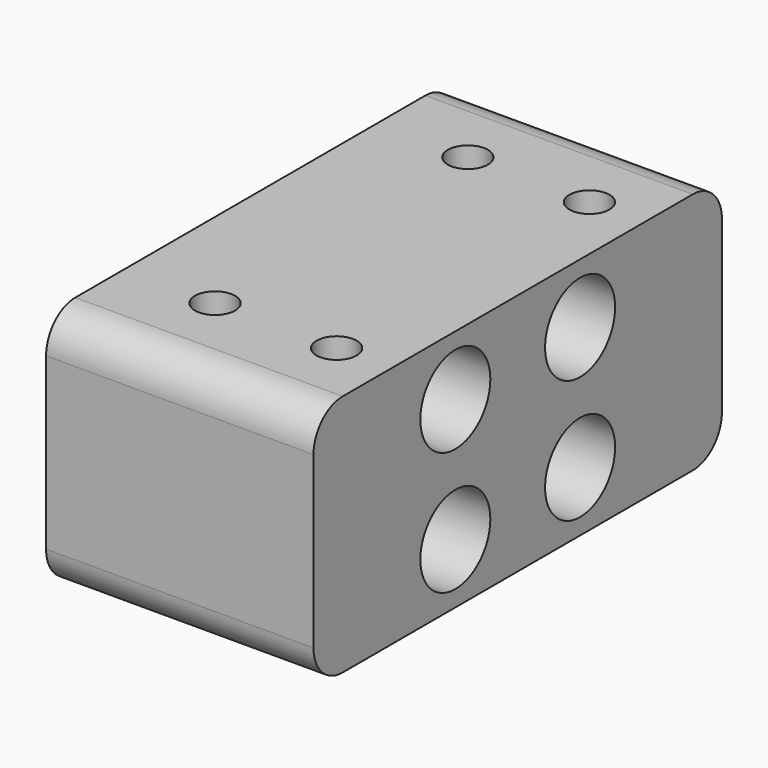
from build123d import *

# Parameters (mm, degrees)
F0_W     = 19
F0_H     = 42
F0_R     = 1.65
F1_DEPTH = 20
F3_DEPTH = 3
F2_R     = 2.1
F4_DEPTH = 22
F2_R_2   = 3.6
F5_DEPTH = 15
F6_R     = 3


with BuildPart() as f1:
    # F0 (on Top) → F1 (new body)
    with BuildSketch(Plane.XY):
        Rectangle(F0_W, F0_H)
        with Locations((-5, -13)):
            Circle(F0_R, mode=Mode.SUBTRACT)
        with Locations((5, -13)):
            Circle(F0_R, mode=Mode.SUBTRACT)
        with Locations((-5, 13)):
            Circle(F0_R, mode=Mode.SUBTRACT)
        with Locations((5, 13)):
            Circle(F0_R, mode=Mode.SUBTRACT)
    extrude(amount=F1_DEPTH)

    # F3 (add): a face of the model
    f3_faces = [f1.faces().sort_by_distance(p)[0] for p in [
        (-9.5, 0, 10),
    ]]
    extrude(f3_faces, amount=F3_DEPTH)

    # F2 (on face) → F4 (cut, through all)
    with BuildSketch(Plane.YZ.offset(9.5)):
        with Locations((-6.415, 15.07)):
            Circle(F2_R)
        with Locations((6.415, 15.07)):
            Circle(F2_R)
        with Locations((6.415, 4.93)):
            Circle(F2_R)
        with Locations((-6.415, 4.93)):
            Circle(F2_R)
    extrude(amount=-F4_DEPTH, mode=Mode.SUBTRACT)

    # F2 (on face) → F5 (cut)
    with BuildSketch(Plane.YZ.offset(9.5)):
        with Locations((6.415, 15.07)):
            Circle(F2_R_2)
        with Locations((6.415, 15.07)):
            Circle(F2_R, mode=Mode.SUBTRACT)
        with Locations((6.415, 4.93)):
            Circle(F2_R_2)
        with Locations((6.415, 4.93)):
            Circle(F2_R, mode=Mode.SUBTRACT)
        with Locations((-6.415, 4.93)):
            Circle(F2_R_2)
        with Locations((-6.415, 4.93)):
            Circle(F2_R, mode=Mode.SUBTRACT)
        with Locations((-6.415, 15.07)):
            Circle(F2_R_2)
        with Locations((-6.415, 15.07)):
            Circle(F2_R, mode=Mode.SUBTRACT)
    extrude(amount=-F5_DEPTH, mode=Mode.SUBTRACT)

    # F6
    f6_edges = [f1.edges().sort_by_distance(p)[0] for p in [
        (-1.5, 21, 0),
        (-1.5, -21, 0),
        (-1.5, -21, 20),
        (-1.5, 21, 20),
    ]]
    fillet(f6_edges, radius=F6_R)


solid = f1.part
